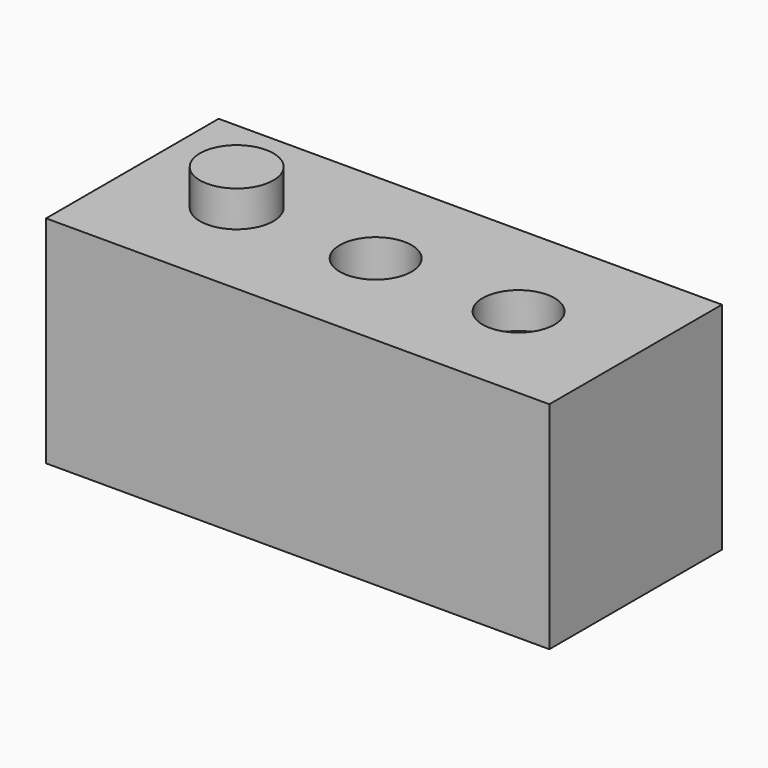
from build123d import *

# Parameters (mm, degrees)
F0_W     = 140
F0_H     = 60
F1_DEPTH = 60
F3_R     = 10.210921
F6_DEPTH = 10
F4_R     = 10
F7_DEPTH = 110.6
F5_R     = 10
F8_DEPTH = 10


with BuildPart() as f1:
    # F0 (on Top) → F1 (new body)
    with BuildSketch(Plane.XY):
        with Locations((2.316078, 0)):
            Rectangle(F0_W, F0_H)
    extrude(amount=F1_DEPTH)

    # F3 (on face) → F6 (join)
    with BuildSketch(Plane.XY.offset(60)):
        with BuildLine():
            ThreePointArc((-48.704213, 0), (-38.600937, -10.421296), (-28.284551, -0.210921))
            ThreePointArc((-28.284551, -0.210921), (-38.390005, 9.999455), (-48.704213, 0))
        make_face()
        with Locations((-38.495471, -0.210921)):
            Circle(F3_R)
    extrude(amount=F6_DEPTH)

    # F4 (on face) → F7 (cut)
    with BuildSketch(Plane.XY.offset(60)):
        Circle(F4_R)
    extrude(amount=-F7_DEPTH, mode=Mode.SUBTRACT)

    # F5 (on face) → F8 (cut)
    with BuildSketch(Plane.XY.offset(60)):
        with Locations((39.79122, -0.047711)):
            Circle(F5_R)
    extrude(amount=-F8_DEPTH, mode=Mode.SUBTRACT)


solid = f1.part
